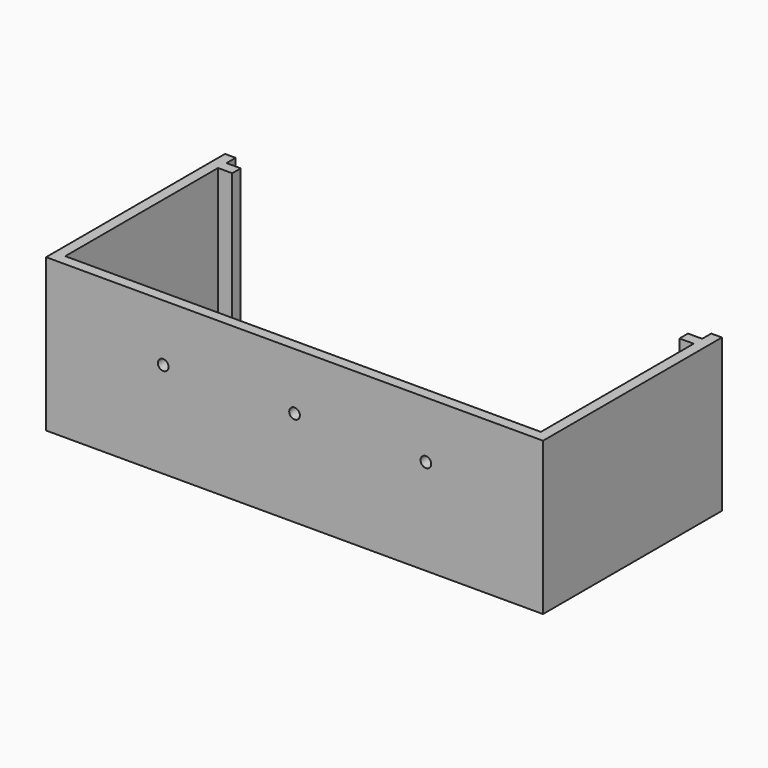
from build123d import *

# Parameters (mm, degrees)
F0_R     = 8
F1_DEPTH = 3
F2_W     = 3
F2_H     = 3
F2_W_2   = 134
F3_DEPTH = 40
F4_W     = 3
F4_H     = 40
F5_DEPTH = 134
F6_W     = 126
F6_H     = 3
F7_DEPTH = 40
F8_R     = 1.5
F9_DEPTH = 3


with BuildPart() as f1:
    # F0 (on Top) → F1 (new body)
    with BuildSketch(Plane.XY):
        Polygon((-60, 33.034884), (-80, 33.034884), (-80, 18.034884), (-80, 0.034884), (-80, -2.965116), (-80, -17.965116), (-80, -29.965116), (60, -29.965116), (60, -24.965116), (60, -14.965116), (60, -9.965116), (60, -4.965116), (60, 0.034884), (60, 18.034884), (60, 33.034884), (40, 33.034884), (20, 33.034884), (0, 33.034884), (-20, 33.034884), (-40, 33.034884), align=None)
        with Locations((-40, -14.965116)):
            Circle(F0_R, mode=Mode.SUBTRACT)
        with Locations((0, -14.965116)):
            Circle(F0_R, mode=Mode.SUBTRACT)
        with Locations((40, -14.965116)):
            Circle(F0_R, mode=Mode.SUBTRACT)
        with Locations((-60, 1.034884)):
            Circle(F0_R, mode=Mode.SUBTRACT)
        with Locations((-20, 1.034884)):
            Circle(F0_R, mode=Mode.SUBTRACT)
        with Locations((-40, 17.034884)):
            Circle(F0_R, mode=Mode.SUBTRACT)
        with Locations((20, 1.034884)):
            Circle(F0_R, mode=Mode.SUBTRACT)
        with Locations((0, 17.034884)):
            Circle(F0_R, mode=Mode.SUBTRACT)
        with Locations((40, 17.034884)):
            Circle(F0_R, mode=Mode.SUBTRACT)
    extrude(amount=F1_DEPTH)

    # F2 (on face) → F3 (join)
    with BuildSketch(Plane.XY.offset(3)):
        with Locations((-78.5, -28.465116)):
            Rectangle(F2_W, F2_H)
        with Locations((-10, -28.465116)):
            Rectangle(F2_W_2, F2_H)
        Polygon((-80, 30.034884), (-80, -26.965116), (-77, -26.965116), (-77, 33.034884), (-80, 33.034884), align=None)
        with Locations((58.5, -28.465116)):
            Rectangle(F2_W, F2_H)
        Polygon((57, 33.034884), (57, -26.965116), (60, -26.965116), (60, 30.034884), (60, 33.034884), align=None)
    extrude(amount=F3_DEPTH)

    # F4 (on face) → F5 (join)
    with BuildSketch(Plane.YZ.offset(-77)):
        with Locations((28.334884, 23)):
            Rectangle(F4_W, F4_H)
    extrude(amount=F5_DEPTH)

    # F6 (on face) → F7 (cut)
    with BuildSketch(Plane.XY.offset(43)):
        with Locations((-10, 28.334884)):
            Rectangle(F6_W, F6_H)
    extrude(amount=-F7_DEPTH, mode=Mode.SUBTRACT)

    # F8 (on face) → F9 (cut)
    with BuildSketch(Plane(origin=(0, -26.965116, 0), x_dir=(-1, 0, 0), z_dir=(0, 1, 0))):
        with Locations((47, 26.988985)):
            Circle(F8_R)
        with Locations((-27, 26.988985)):
            Circle(F8_R)
        with Locations((10, 26.988985)):
            Circle(F8_R)
    extrude(amount=-F9_DEPTH, mode=Mode.SUBTRACT)


solid = f1.part
